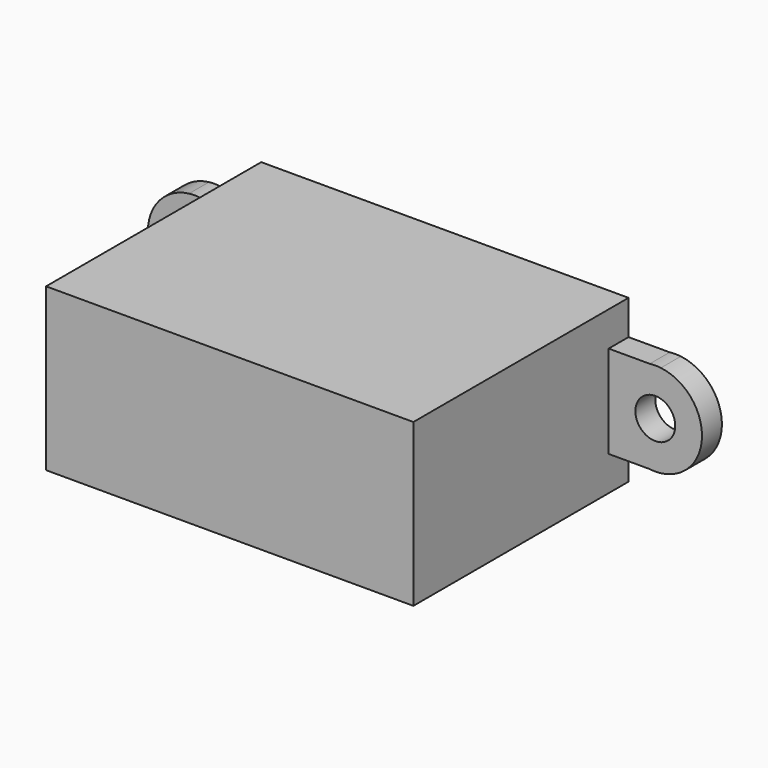
from build123d import *

# Parameters (mm, degrees)
F0_W     = 29.5
F0_H     = 13
F1_DEPTH = 21.6
F2_R     = 1.6
F3_DEPTH = 2


with BuildPart() as f1:
    # F0 (on Front) → F1 (new body)
    with BuildSketch(Plane.XZ):
        Rectangle(F0_W, F0_H)
    extrude(amount=F1_DEPTH)

    # F2 (on Front) → F3 (join)
    with BuildSketch(Plane.XZ):
        with BuildLine():
            Line((18.94665, -3.723306), (18.05335, -3.723306))
            ThreePointArc((18.05335, -3.723306), (18.5, -3.75), (18.94665, -3.723306))
        make_face()
        with BuildLine():
            Line((0, -3.723306), (18.05335, -3.723306))
            Line((18.05335, -3.723306), (18.94665, -3.723306))
            ThreePointArc((18.94665, -3.723306), (22.25, 0), (18.94665, 3.723306))
            Line((18.94665, 3.723306), (18.05335, 3.723306))
            Line((18.05335, 3.723306), (0, 3.723306))
            Line((0, 3.723306), (0, -3.723306))
        make_face()
        with Locations((18.5, 0)):
            Circle(F2_R, mode=Mode.SUBTRACT)
        with BuildLine():
            Line((-18.05335, -3.723306), (0, -3.723306))
            Line((0, -3.723306), (0, 3.723306))
            Line((0, 3.723306), (-18.05335, 3.723306))
            Line((-18.05335, 3.723306), (-18.94665, 3.723306))
            ThreePointArc((-18.94665, 3.723306), (-22.25, 0), (-18.94665, -3.723306))
            Line((-18.94665, -3.723306), (-18.05335, -3.723306))
        make_face()
        with Locations((-18.5, 0)):
            Circle(F2_R, mode=Mode.SUBTRACT)
        with BuildLine():
            Line((18.05335, 3.723306), (18.94665, 3.723306))
            ThreePointArc((18.94665, 3.723306), (18.5, 3.75), (18.05335, 3.723306))
        make_face()
        with BuildLine():
            ThreePointArc((-18.94665, -3.723306), (-18.5, -3.75), (-18.05335, -3.723306))
            Line((-18.05335, -3.723306), (-18.94665, -3.723306))
        make_face()
        with BuildLine():
            Line((-18.94665, 3.723306), (-18.05335, 3.723306))
            ThreePointArc((-18.05335, 3.723306), (-18.5, 3.75), (-18.94665, 3.723306))
        make_face()
    extrude(amount=F3_DEPTH)


solid = f1.part
